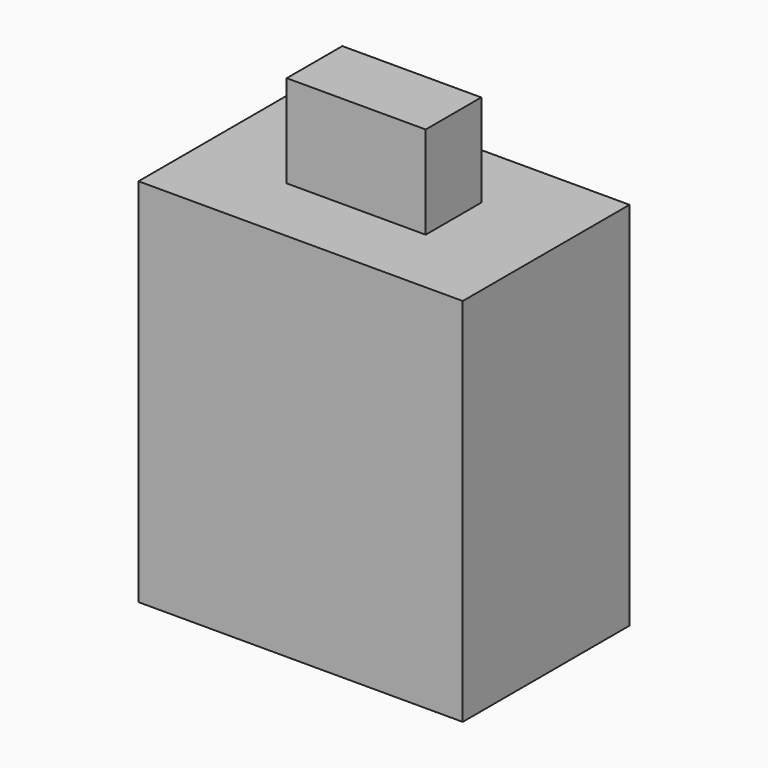
from build123d import *

# Parameters (mm, degrees)
BOX014_W     = 3
BOX014_H     = 1.5
BOX014_DEPTH = 2
BOX012_W     = 6
BOX012_H     = 3.5
BOX012_DEPTH = 4.5
BOX013_W     = 7
BOX013_H     = 4.5
BOX013_DEPTH = 8


with BuildPart() as cube012:
    # Box014 → Box014 (new body)
    with BuildSketch(Plane(origin=(23.5, 13, 10), x_dir=(1, 0, 0), z_dir=(0, 0, 1))):
        with Locations((1.5, 0.75)):
            Rectangle(BOX014_W, BOX014_H)
    extrude(amount=BOX014_DEPTH)


with BuildPart() as cube010:
    # Box012 → Box012 (new body)
    with BuildSketch(Plane(origin=(22, 12, 1.6), x_dir=(1, 0, 0), z_dir=(0, 0, 1))):
        with Locations((3, 1.75)):
            Rectangle(BOX012_W, BOX012_H)
    extrude(amount=BOX012_DEPTH)


with BuildPart() as obj1:
    # Box013 → Box013 (new body)
    with BuildSketch(Plane(origin=(21.5, 11.5, 2), x_dir=(1, 0, 0), z_dir=(0, 0, 1))):
        with Locations((3.5, 2.25)):
            Rectangle(BOX013_W, BOX013_H)
    extrude(amount=BOX013_DEPTH)

    # Cut003: cut Cube010
    add(cube010.part, mode=Mode.SUBTRACT)

    # Fusion003: union Cube012
    add(cube012.part)


solid = obj1.part
